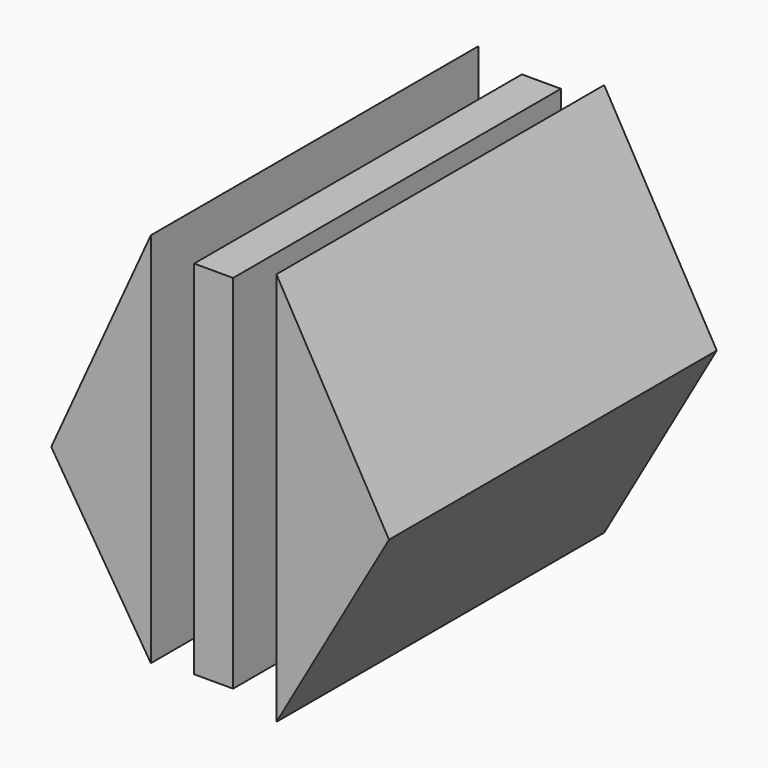
from build123d import *

# Parameters (mm, degrees)
F1_DEPTH = 50.8
F2_W     = 4.832819
F2_H     = 44.837821
F3_DEPTH = 50.8
F5_DEPTH = 50.8


with BuildPart() as f1:
    # F0 (on Front) → F1 (new body)
    with BuildSketch(Plane.XZ):
        Polygon((-23.22438, -3.087634), (-23.22438, 43.629616), (-35.574917, 16.512131), align=None)
    extrude(amount=F1_DEPTH)


with BuildPart() as f3:
    # F2 (on Front) → F3 (new body)
    with BuildSketch(Plane.XZ):
        with Locations((-15.438171, 19.868256)):
            Rectangle(F2_W, F2_H)
    extrude(amount=F3_DEPTH)


with BuildPart() as f5:
    # F4 (on Front) → F5 (new body)
    with BuildSketch(Plane.XZ):
        Polygon((6.309514, 20.0025), (-7.651964, 44.435084), (-7.651964, -4.430084), align=None)
    extrude(amount=F5_DEPTH)


solid = Compound([f1.part, f3.part, f5.part])
